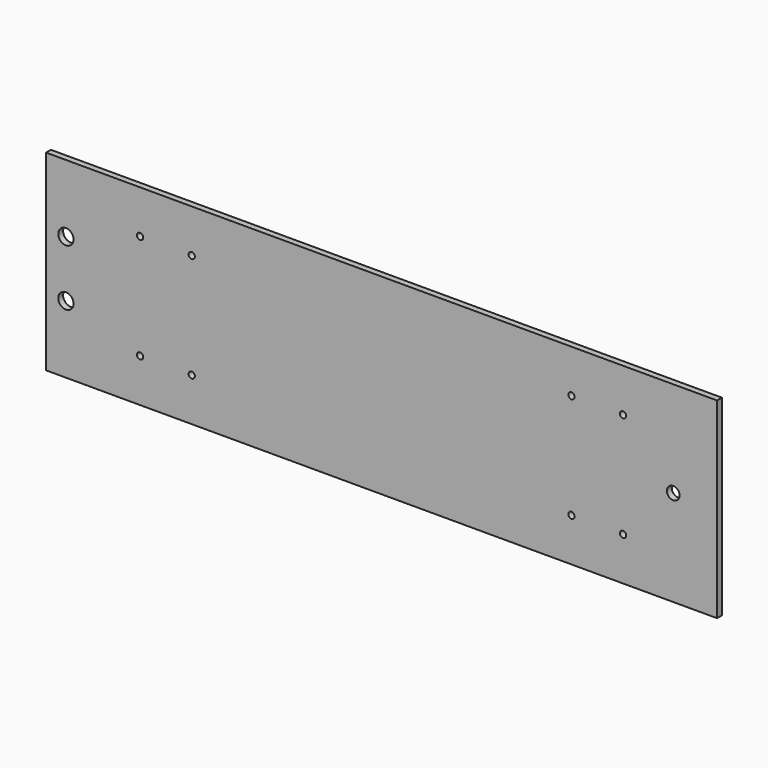
from build123d import *

# Parameters (mm, degrees)
F0_W     = 350
F0_H     = 100
F0_R     = 1.64084
F0_R_2   = 3.9878
F0_R_3   = 3.302
F1_DEPTH = 3.175


with BuildPart() as f1:
    # F0 (on Front) → F1 (new body)
    with BuildSketch(Plane.XZ):
        with Locations((0, -25)):
            Rectangle(F0_W, F0_H)
        with Locations((-125.9747, -52.45)):
            Circle(F0_R, mode=Mode.SUBTRACT)
        with Locations((-99.0253, -52.45)):
            Circle(F0_R, mode=Mode.SUBTRACT)
        with Locations((-164.6622, -39.75)):
            Circle(F0_R_2, mode=Mode.SUBTRACT)
        with Locations((99.0253, -52.45)):
            Circle(F0_R, mode=Mode.SUBTRACT)
        with Locations((125.9747, -52.45)):
            Circle(F0_R, mode=Mode.SUBTRACT)
        with Locations((-164.6622, -10.25)):
            Circle(F0_R_2, mode=Mode.SUBTRACT)
        with Locations((-125.9747, 2.45)):
            Circle(F0_R, mode=Mode.SUBTRACT)
        with Locations((-99.0253, 2.45)):
            Circle(F0_R, mode=Mode.SUBTRACT)
        with Locations((152.14, -25)):
            Circle(F0_R_3, mode=Mode.SUBTRACT)
        with Locations((99.0253, 2.45)):
            Circle(F0_R, mode=Mode.SUBTRACT)
        with Locations((125.9747, 2.45)):
            Circle(F0_R, mode=Mode.SUBTRACT)
    extrude(amount=F1_DEPTH)


solid = f1.part
